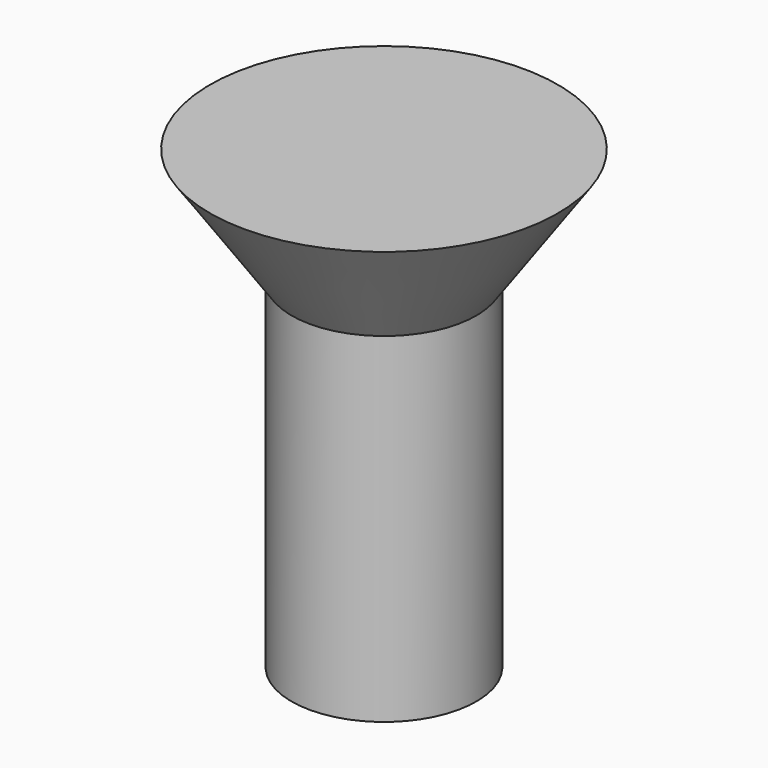
from build123d import *


with BuildPart() as f1:
    # F0 (on Right) → F1 (revolve)
    with BuildSketch(Plane.YZ):
        Polygon((-22.795506, -50.314404), (0, -50.314404), (0, 62.225569), (-42.921267, 62.225569), (-22.795506, 33.474479), align=None)
    revolve(axis=Axis((0, 0, 5.955582), (0, 0, -1)))


solid = f1.part
